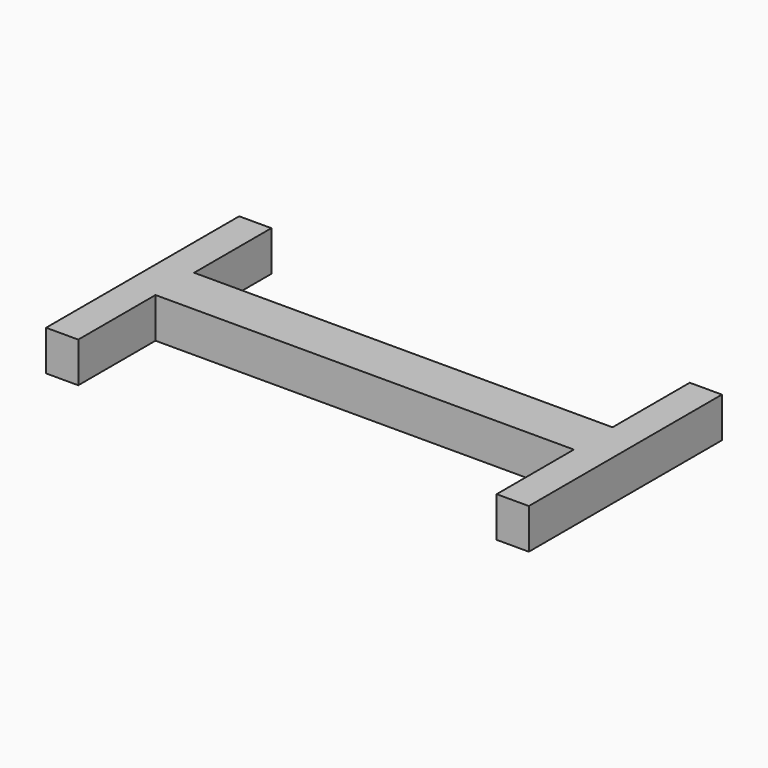
from build123d import *

# Parameters (mm, degrees)
F0_W     = 4
F0_H     = 6
F0_H_2   = 12
F0_W_2   = 52
F1_DEPTH = 5


with BuildPart() as f1:
    # F0 (on Top) → F1 (new body)
    with BuildSketch(Plane.XY):
        with Locations((28, 0)):
            Rectangle(F0_W, F0_H)
        with Locations((28, 9)):
            Rectangle(F0_W, F0_H_2)
        Rectangle(F0_W_2, F0_H)
        with Locations((28, -9)):
            Rectangle(F0_W, F0_H_2)
        with Locations((-28, 0)):
            Rectangle(F0_W, F0_H)
        with Locations((-28, 9)):
            Rectangle(F0_W, F0_H_2)
        with Locations((-28, -9)):
            Rectangle(F0_W, F0_H_2)
    extrude(amount=F1_DEPTH)


solid = f1.part
